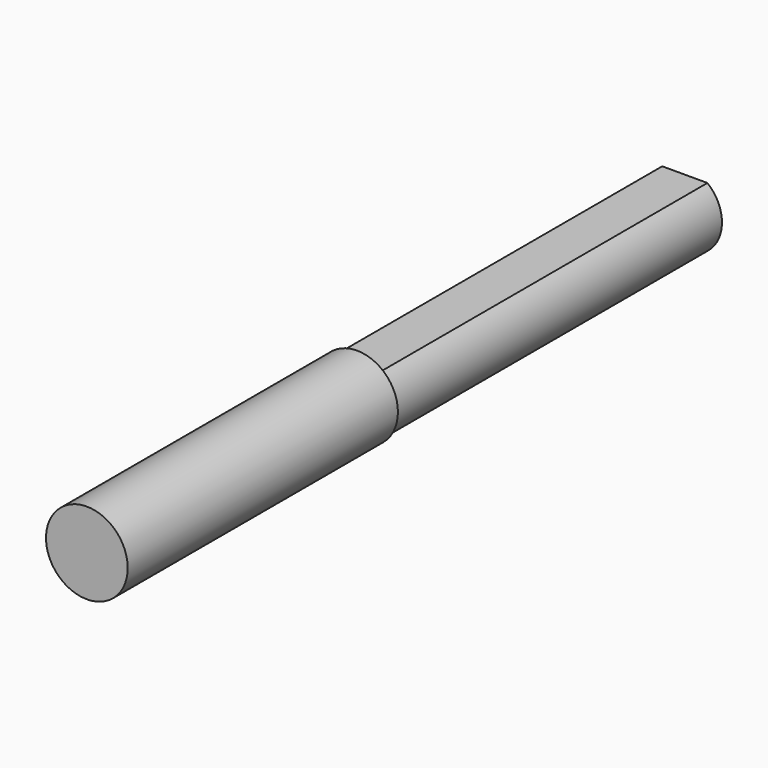
from build123d import *

# Parameters (mm, degrees)
F0_R     = 4
F1_DEPTH = 130
F2_START = 75
F0_R_2   = 7.5
F2_DEPTH = 62
F3_DEPTH = 7


with BuildPart() as f1:
    # F0 (on Front) → F1 (new body)
    with BuildSketch(Plane.XZ):
        with BuildLine():
            Line((4.2239325422, 5.5), (-4.0704200721, 5.5))
            ThreePointArc((-4.0704200721, 5.5), (-6.8423913629, 0), (-4.0704200721, -5.5))
            Line((-4.0704200721, -5.5), (4.2239325422, -5.5))
            ThreePointArc((4.2239325422, -5.5), (6.9010050788, 0), (4.2239325422, 5.5))
        make_face()
        Circle(F0_R, mode=Mode.SUBTRACT)
        Circle(F0_R)
    extrude(amount=F1_DEPTH)

    # F0 (on Front) → F2 (join)
    with BuildSketch(Plane.XZ.offset(F2_START)):
        with Locations((-0.087359423, 0)):
            Circle(F0_R_2)
        with BuildLine():
            ThreePointArc((-4.0704200721, -5.5), (-6.8423913629, 0), (-4.0704200721, 5.5))
            Line((-4.0704200721, 5.5), (4.2239325422, 5.5))
            ThreePointArc((4.2239325422, 5.5), (6.9010050788, 0), (4.2239325422, -5.5))
            Line((4.2239325422, -5.5), (-4.0704200721, -5.5))
        make_face(mode=Mode.SUBTRACT)
    extrude(amount=F2_DEPTH)

    # F3 (add): a face of the model
    f3_faces = [f1.faces().sort_by_distance(p)[0] for p in [
        (0.0391395294, -130, 0),
    ]]
    extrude(f3_faces, amount=F3_DEPTH)


solid = f1.part
